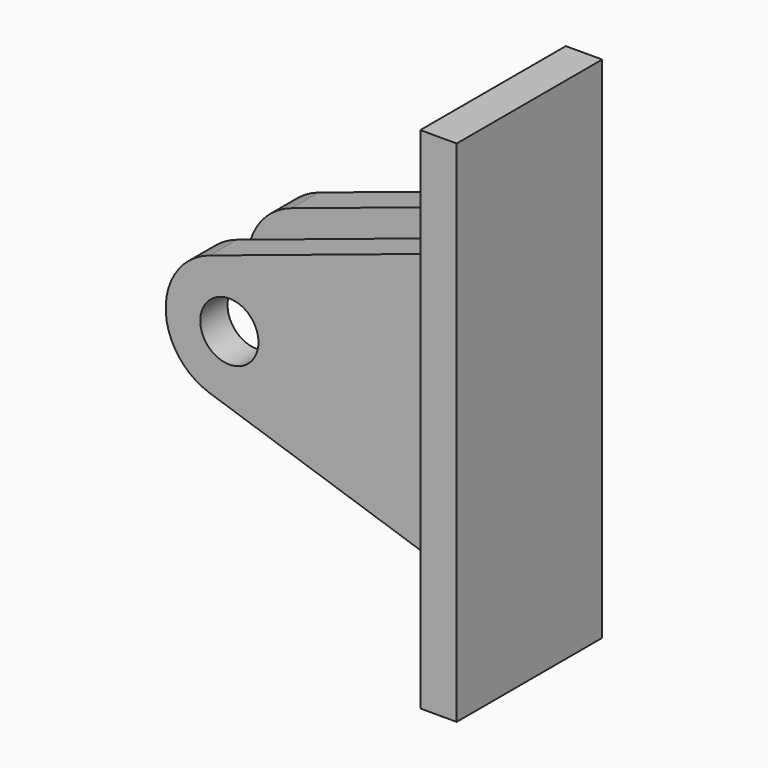
from build123d import *

# Parameters (mm, degrees)
RECTANGLE001_W   = 30
RECTANGLE001_H   = 7.5
EXTRUDE003_DEPTH = 30
SKETCH_R         = 3.2
EXTRUDE002_DEPTH = 15
EXTRUDE_DEPTH    = 10


with BuildPart() as extrude003:
    # Rectangle001 → Extrude003 (new body)
    with BuildSketch(Plane(origin=(-30, -3.75, -15), x_dir=(1, 0, 0), z_dir=(0, 0, 1))):
        with Locations((15, 3.75)):
            Rectangle(RECTANGLE001_W, RECTANGLE001_H)
    extrude(amount=EXTRUDE003_DEPTH)


with BuildPart() as extrude003_1:
    # Extrude003 placement: moved
    add(extrude003.part.moved(Location((-15, 0, -15))))


with BuildPart() as cut:
    # Sketch → Extrude002 (new body)
    with BuildSketch(Plane(origin=(-15, 0, -30), x_dir=(1, 0, 0), z_dir=(0, -1, 0))):
        with BuildLine():
            Line((-25.202842, 21.644358), (0, 30))
            Line((0, 30), (0, 0))
            Line((-25.202842, 8.355642), (0, 0))
            ThreePointArc((-25.202842, 21.644358), (-30, 15), (-25.202842, 8.355642))
        make_face()
        with Locations((-23, 15)):
            Circle(SKETCH_R, mode=Mode.SUBTRACT)
    extrude(amount=-EXTRUDE002_DEPTH)


with BuildPart() as cut_1:
    # Extrude002 placement: moved
    add(cut.part.moved(Location((0, -7.5, 0))))

    # Cut: cut Extrude003
    add(extrude003_1.part, mode=Mode.SUBTRACT)


with BuildPart() as body:
    # Sketch001 → Extrude (new body, symmetric)
    with BuildSketch(Plane.XZ):
        Polygon((-15, 0), (-15, 13), (-11, 13), (-11, -43), (-15, -43), (-15, -30), align=None)
    extrude(amount=EXTRUDE_DEPTH, both=True)

    # Fusion: union Cut
    add(cut_1.part)


solid = body.part
